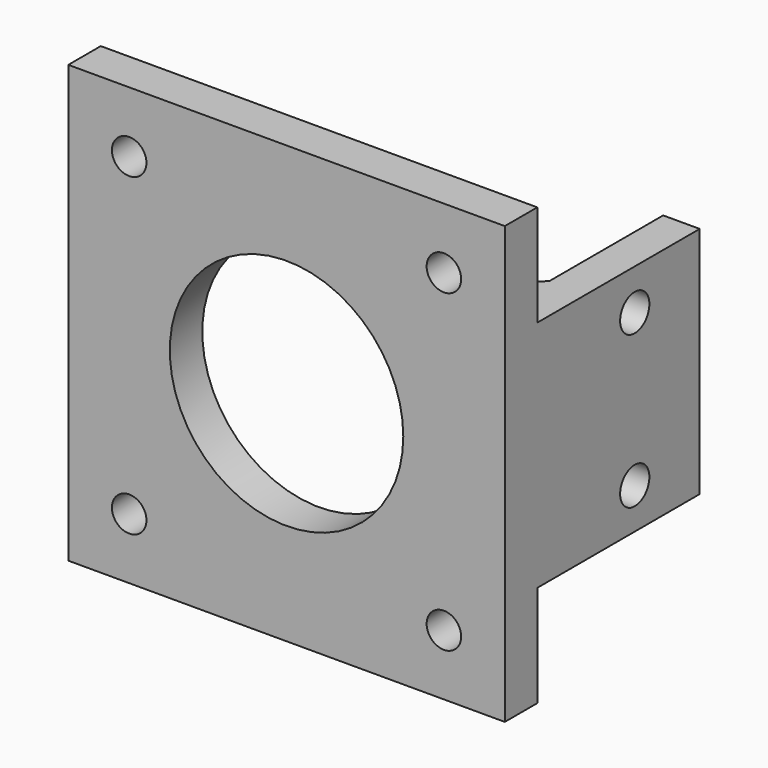
from build123d import *

# Parameters (mm, degrees)
PAD003_DEPTH    = 43
SKETCH004_R     = 11.5
SKETCH004_R_2   = 1.7
POCKET_DEPTH    = 4
SKETCH005_R     = 1.8
SKETCH005_W     = 20
SKETCH005_H     = 10
POCKET001_DEPTH = 3.6
CHAMFER_SIZE    = 6


with BuildPart() as part:
    # Sketch003 → Pad003 (new body)
    with BuildSketch(Plane.XY):
        Polygon((-43, 4), (-3.6, 4), (-3.6, 24), (0, 24), (0, 0), (-43, 0), align=None)
    extrude(amount=PAD003_DEPTH)

    # Sketch004 → Pocket (cut)
    with BuildSketch(Plane.XZ):
        with Locations((-21.5, 21.5)):
            Circle(SKETCH004_R)
        with Locations((-37, 37)):
            Circle(SKETCH004_R_2)
        with Locations((-6, 37)):
            Circle(SKETCH004_R_2)
        with Locations((-6, 6)):
            Circle(SKETCH004_R_2)
        with Locations((-37, 6)):
            Circle(SKETCH004_R_2)
    extrude(amount=-POCKET_DEPTH, mode=Mode.SUBTRACT)

    # Sketch005 → Pocket001 (cut)
    with BuildSketch(Plane.YZ):
        with Locations((16, 29)):
            Circle(SKETCH005_R)
        with Locations((16, 14)):
            Circle(SKETCH005_R)
        with Locations((14, 38)):
            Rectangle(SKETCH005_W, SKETCH005_H)
        with Locations((14, 5)):
            Rectangle(SKETCH005_W, SKETCH005_H)
    extrude(amount=-POCKET001_DEPTH, mode=Mode.SUBTRACT)

    # Chamfer
    chamfer_edges = [part.edges().sort_by_distance(p)[0] for p in [
        (-3.6, 4, 21.5),
    ]]
    chamfer(chamfer_edges, length=CHAMFER_SIZE)


solid = part.part
